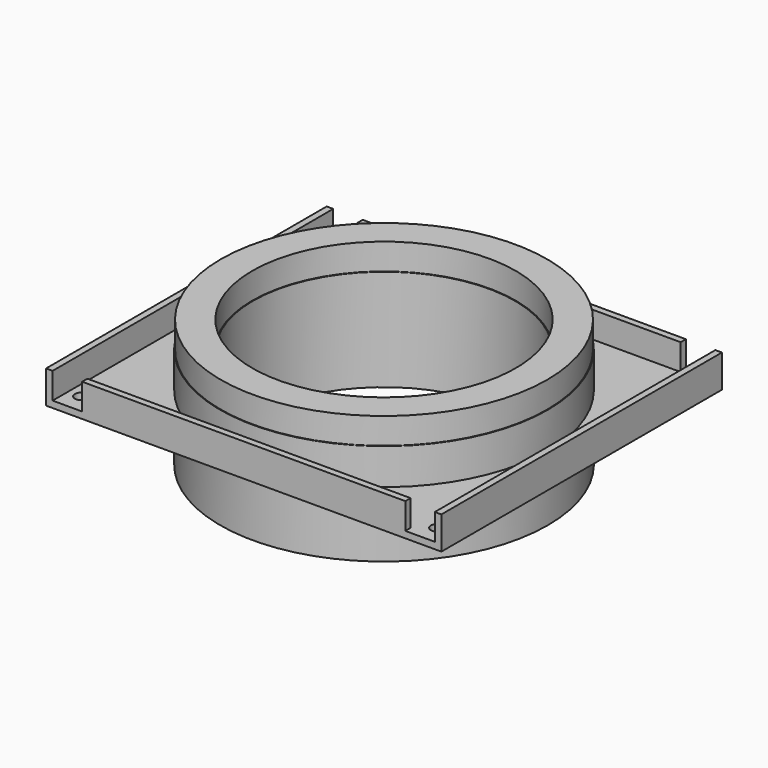
from build123d import *

# Parameters (mm, degrees)
F2_W     = 603
F2_H     = 535
F2_R     = 10
F2_R_2   = 201
F3_DEPTH = 10
F4_W     = 493
F4_H     = 10
F4_W_2   = 10
F4_H_2   = 535
F5_DEPTH = 50


with BuildPart() as f1:
    # F0 (on Front) → F1 (revolve)
    with BuildSketch(Plane.XZ):
        Polygon((-201, -100), (-200, -100), (-200, 55), (-201, 55), (-201, 95), (-249, 95), (-249, 55), (-250, 55), (-250, -100), (-249, -100), (-249, -60), (-201, -60), align=None)
    revolve(axis=Axis((0, 0, -77.049306), (0, 0, -1)))

    # F2 (on Top) → F3 (join)
    with BuildSketch(Plane.XY):
        Rectangle(F2_W, F2_H)
        with Locations((-271.5, -237.5)):
            Circle(F2_R, mode=Mode.SUBTRACT)
        with Locations((271.5, -237.5)):
            Circle(F2_R, mode=Mode.SUBTRACT)
        with Locations((-271.5, 237.5)):
            Circle(F2_R, mode=Mode.SUBTRACT)
        Circle(F2_R_2, mode=Mode.SUBTRACT)
        with Locations((271.5, 237.5)):
            Circle(F2_R, mode=Mode.SUBTRACT)
    extrude(amount=-F3_DEPTH)

    # F4 (on face) → F5 (join)
    with BuildSketch(Plane(origin=(0, 0, -10), x_dir=(1, 0, 0), z_dir=(0, 0, -1))):
        with Locations((0, 262.5)):
            Rectangle(F4_W, F4_H)
        with Locations((-296.5, 0)):
            Rectangle(F4_W_2, F4_H_2)
        with Locations((0, -262.5)):
            Rectangle(F4_W, F4_H)
        with Locations((296.5, 0)):
            Rectangle(F4_W_2, F4_H_2)
    extrude(amount=-F5_DEPTH)


solid = f1.part
